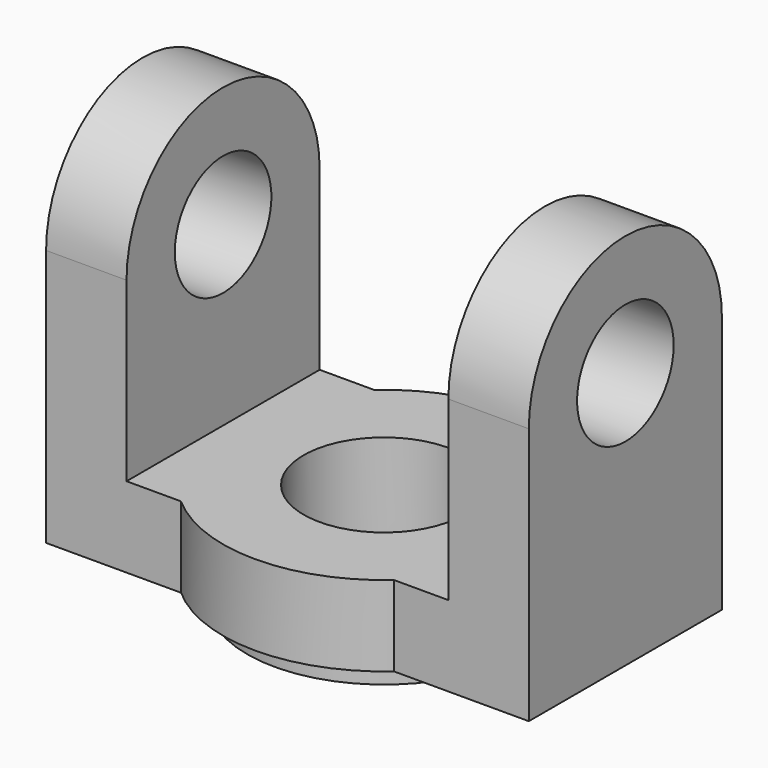
from build123d import *

# Parameters (mm, degrees)
F1_DEPTH = 10
F2_R     = 17
F3_DEPTH = 3
F4_R     = 10
F5_DEPTH = 13.001
F6_R     = 7.5
F7_DEPTH = 10
F8_R     = 7.5
F9_DEPTH = 10


with BuildPart() as f1:
    # F0 (on Top) → F1 (new body)
    with BuildSketch(Plane.XY):
        with BuildLine():
            Line((-30, -15), (-13.228757, -15))
            ThreePointArc((-13.228757, -15), (0, -20), (13.228757, -15))
            Line((13.228757, -15), (30, -15))
            Line((30, -15), (30, 15))
            Line((30, 15), (13.228757, 15))
            ThreePointArc((13.228757, 15), (0, 20), (-13.228757, 15))
            Line((-13.228757, 15), (-30, 15))
            Line((-30, 15), (-30, -15))
        make_face()
    extrude(amount=-F1_DEPTH)

    # F2 (on face) → F3 (join)
    with BuildSketch(Plane(origin=(0, 0, -10), x_dir=(1, 0, 0), z_dir=(0, 0, -1))):
        Circle(F2_R)
    extrude(amount=F3_DEPTH)

    # F4 (on face) → F5 (cut, through all)
    with BuildSketch(Plane.XY):
        Circle(F4_R)
    extrude(amount=-F5_DEPTH, mode=Mode.SUBTRACT)

    # F6 (on face) → F7 (join)
    with BuildSketch(Plane.YZ.offset(30)):
        with BuildLine():
            Line((-15, 0), (15, 0))
            Line((15, 0), (15, 22))
            ThreePointArc((15, 22), (0, 37), (-15, 22))
            Line((-15, 22), (-15, 0))
        make_face()
        with Locations((0, 22)):
            Circle(F6_R, mode=Mode.SUBTRACT)
    extrude(amount=-F7_DEPTH)

    # F8 (on face) → F9 (join)
    with BuildSketch(Plane(origin=(-30, 0, 0), x_dir=(0, -1, 0), z_dir=(-1, 0, 0))):
        with BuildLine():
            Line((-15, 22), (-15, 0))
            Line((-15, 0), (15, 0))
            Line((15, 0), (15, 22))
            ThreePointArc((15, 22), (0, 37), (-15, 22))
        make_face()
        with Locations((0, 22)):
            Circle(F8_R, mode=Mode.SUBTRACT)
    extrude(amount=-F9_DEPTH)


solid = f1.part
